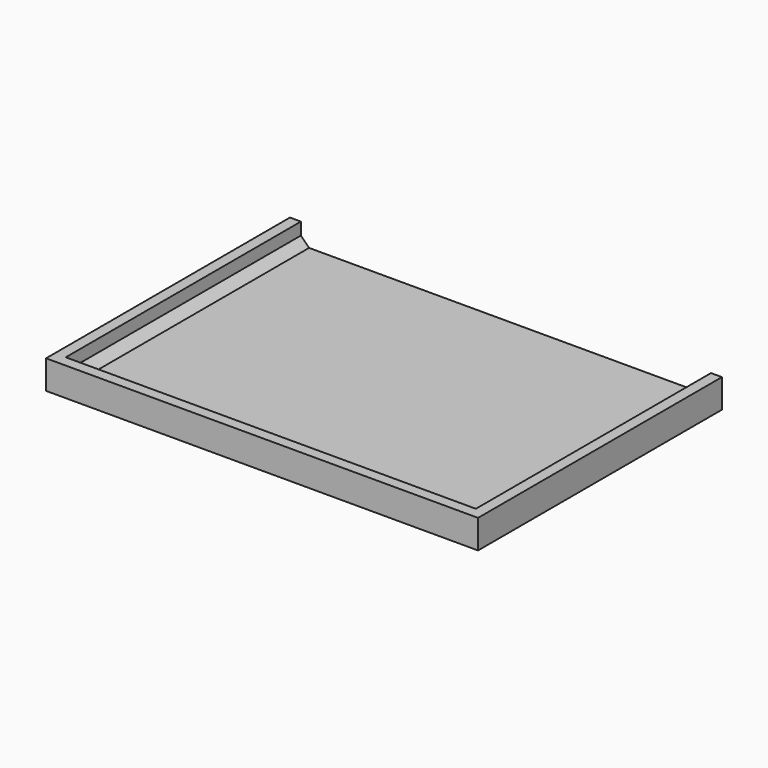
from build123d import *

# Parameters (mm, degrees)
F1_DEPTH = 4.2
F0_W     = 60
F0_H     = 43
F2_DEPTH = 1.2
F3_SIZE  = 1.2


with BuildPart() as f1:
    # F0 (on Top) → F1 (new body)
    with BuildSketch(Plane.XY):
        Polygon((-28.6880440414, 27.4013292328), (-30.2880440414, 27.4013292328), (-30.2880440414, -17.1986707672), (32.9119559586, -17.1986707672), (32.9119559586, 27.4013292328), (31.3119559586, 27.4013292328), (31.3119559586, -15.5986707672), (-28.6880440414, -15.5986707672), align=None)
    extrude(amount=F1_DEPTH)

    # F0 (on Top) → F2 (join)
    with BuildSketch(Plane.XY):
        Polygon((-28.6880440414, 27.4013292328), (-30.2880440414, 27.4013292328), (-30.2880440414, -17.1986707672), (32.9119559586, -17.1986707672), (32.9119559586, 27.4013292328), (31.3119559586, 27.4013292328), (31.3119559586, -15.5986707672), (-28.6880440414, -15.5986707672), align=None)
        with Locations((1.3119559586, 5.9013292328)):
            Rectangle(F0_W, F0_H)
    extrude(amount=F2_DEPTH)

    # F3
    f3_edges = [f1.edges().sort_by_distance(p)[0] for p in [
        (-28.688044, 5.901329, 1.2),
        (1.311956, -15.598671, 1.2),
        (31.311956, 5.901329, 1.2),
    ]]
    chamfer(f3_edges, length=F3_SIZE)


solid = f1.part
